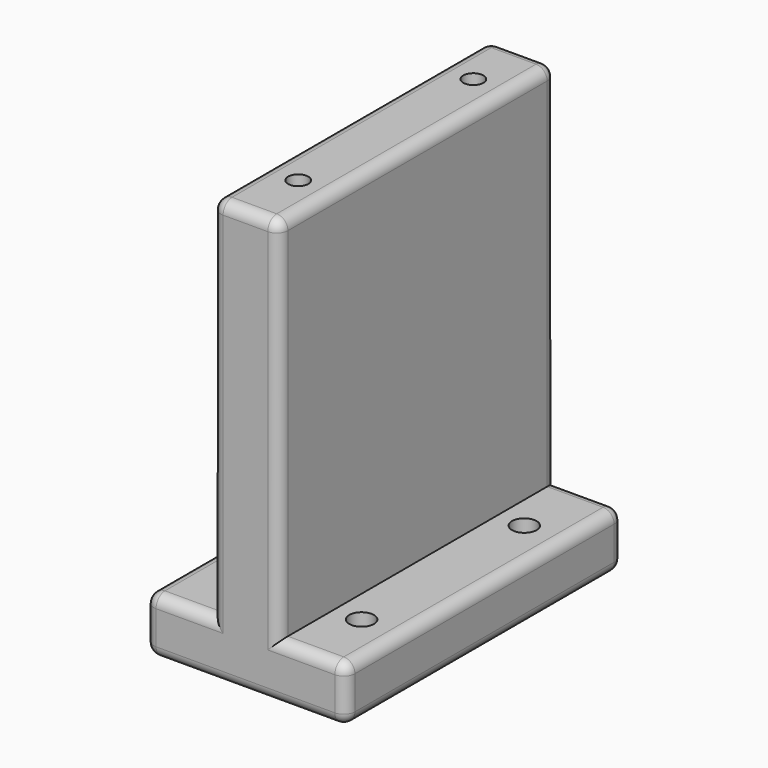
from build123d import *

# Parameters (mm, degrees)
F0_W     = 30
F0_H     = 25
F1_DEPTH = 155
F2_R     = 5
F4_D     = 9
F4_DEPTH = 25
F4_TIP   = 2.7038727856
F6_D     = 11
F6_DEPTH = 25
F6_TIP   = 3.3047334047


with BuildPart() as f1:
    # F0 (on Front) → F1 (new body)
    with BuildSketch(Plane.XZ):
        with Locations((-15, 12.5)):
            Rectangle(F0_W, F0_H)
        Polygon((0, 25), (0, 0), (30, 0), (30, 25), (30, 189.8), (0, 189.8), align=None)
        with Locations((45, 12.5)):
            Rectangle(F0_W, F0_H)
    extrude(amount=F1_DEPTH)

    # F2
    f2_edges = [f1.edges().sort_by_distance(p)[0] for p in [
        (15, -155, 189.8),
        (0, -155, 107.4),
        (30, -155, 107.4),
        (45, -155, 25),
        (-15, -155, 25),
        (-30, -155, 12.5),
        (15, -155, 0),
        (60, -155, 12.5),
        (60, -77.5, 25),
        (60, -77.5, 0),
        (-30, -77.5, 25),
        (-30, -77.5, 0),
        (0, -77.5, 189.8),
        (30, -77.5, 189.8),
        (0, 0, 107.4),
        (30, 0, 107.4),
        (45, 0, 25),
        (15, 0, 0),
        (-15, 0, 25),
        (-30, 0, 12.5),
        (60, 0, 12.5),
        (15, 0, 189.8),
    ]]
    fillet(f2_edges, radius=F2_R)

    # F4
    with Locations(Plane.XY.offset(189.8)):
        with Locations((15, -27.5), (15, -125.5)):
            Hole(F4_D / 2, depth=F4_DEPTH)
            with Locations((0, 0, -(F4_DEPTH + F4_TIP / 2))):  # 118° drill point
                Cone(0, F4_D / 2, F4_TIP, mode=Mode.SUBTRACT)

    # F6
    with Locations(Plane.XY.offset(25)):
        with Locations((-12.5, -33), (-12.5, -124), (42.1827733517, -33), (42.1827733517, -124)):
            Hole(F6_D / 2, depth=F6_DEPTH)
            with Locations((0, 0, -(F6_DEPTH + F6_TIP / 2))):  # 118° drill point
                Cone(0, F6_D / 2, F6_TIP, mode=Mode.SUBTRACT)


solid = f1.part
